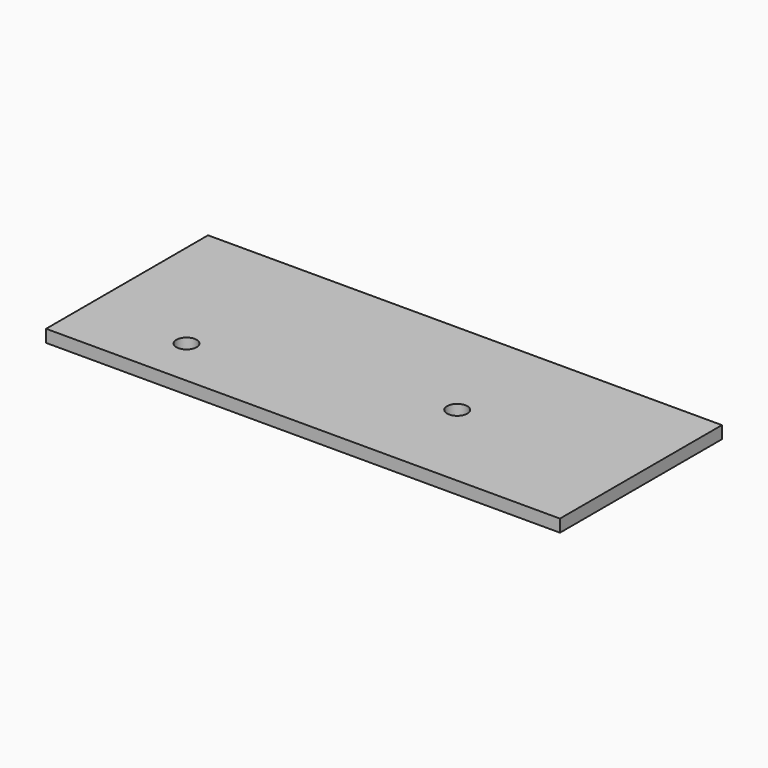
from build123d import *

# Parameters (mm, degrees)
F0_W     = 66
F0_H     = 26
F1_DEPTH = 1.6
F3_R     = 1.3
F4_DEPTH = 1.6


with BuildPart() as f1:
    # F0 (on Top) → F1 (new body)
    with BuildSketch(Plane.XY):
        with Locations((33, 13)):
            Rectangle(F0_W, F0_H)
    extrude(amount=F1_DEPTH)

    # F3 (on face) → F4 (cut, through all)
    with BuildSketch(Plane.XY.offset(1.6)):
        with BuildLine():
            Line((14.0246950766, 5.5), (11.9753049234, 5.5))
            ThreePointArc((11.9753049234, 5.5), (13, 5), (14.0246950766, 5.5))
        make_face()
        with BuildLine():
            ThreePointArc((14.0246950766, 5.5), (14.2292484695, 5.8769773053), (14.3, 6.3))
            ThreePointArc((14.3, 6.3), (12.5769773053, 7.5292484695), (11.9753049234, 5.5))
            Line((11.9753049234, 5.5), (14.0246950766, 5.5))
        make_face()
        with Locations((43.2, 12)):
            Circle(F3_R)
    extrude(amount=-F4_DEPTH, mode=Mode.SUBTRACT)


solid = f1.part
